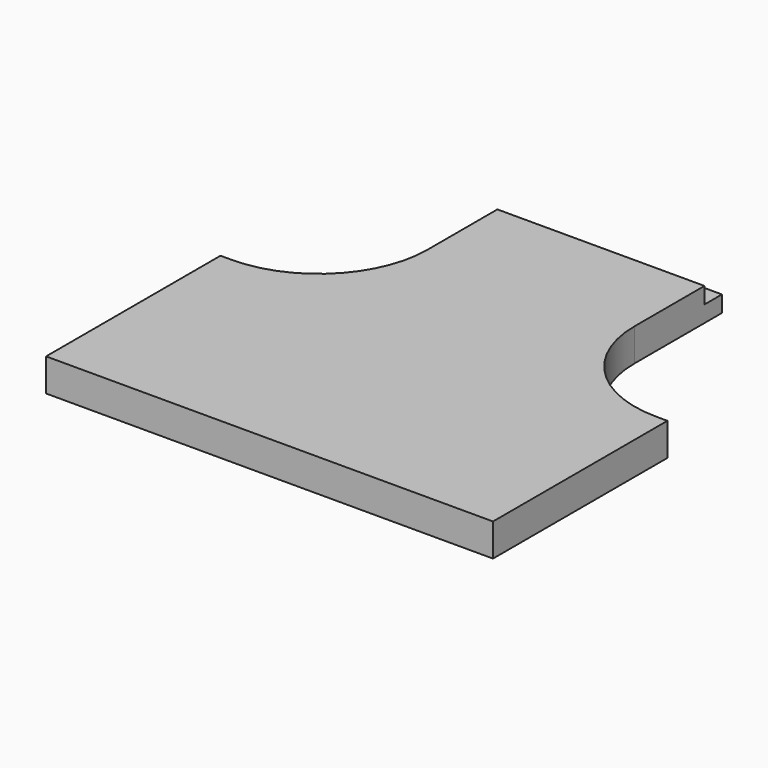
from build123d import *

# Parameters (mm, degrees)
F1_DEPTH = 3
F2_DEPTH = 1.5


with BuildPart() as f1:
    # F0 (on Top) → F1 (new body)
    with BuildSketch(Plane.XY):
        with BuildLine():
            Line((-20.5, 0), (0, 0))
            Line((0, 0), (20.5, 0))
            Line((20.5, 0), (20.5, 20))
            Line((20.5, 20), (19.5, 20))
            ThreePointArc((19.5, 20), (12.428932, 22.928932), (9.5, 30))
            Line((9.5, 30), (9.5, 38))
            Line((9.5, 38), (-9.5, 38))
            Line((-9.5, 38), (-9.5, 30))
            ThreePointArc((-9.5, 30), (-12.428932, 22.928932), (-19.5, 20))
            Line((-19.5, 20), (-20.5, 20))
            Line((-20.5, 20), (-20.5, 0))
        make_face()
    extrude(amount=F1_DEPTH)

    # F0 (on Top) → F2 (join)
    with BuildSketch(Plane.XY):
        Polygon((-9.5, 40), (-9.5, 38), (9.5, 38), (9.5, 40), (0, 40), align=None)
    extrude(amount=F2_DEPTH)


solid = f1.part
